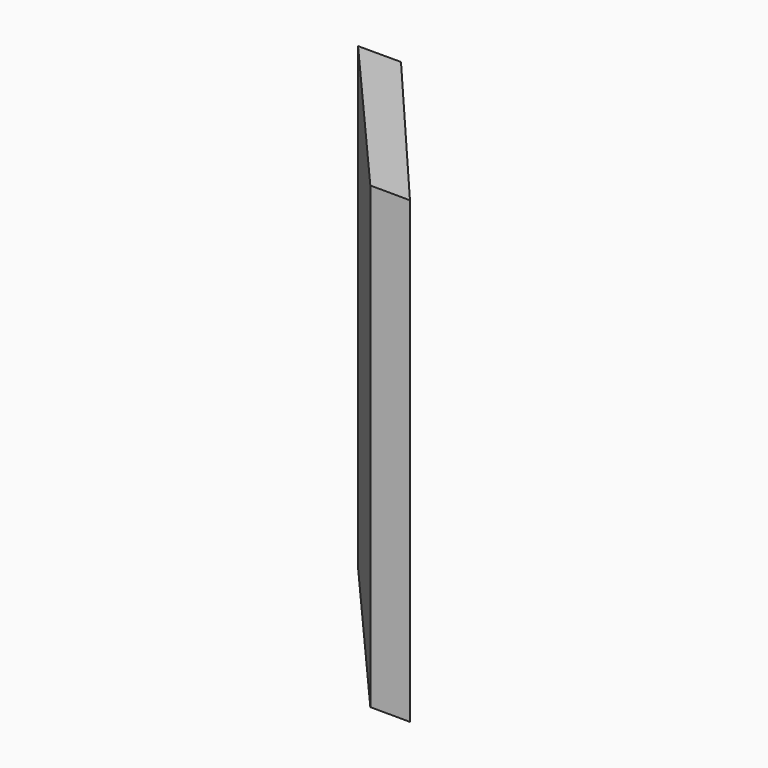
from build123d import *

# Parameters (mm, degrees)
F1_DEPTH = 388.820231


with BuildPart() as f1:
    # F0 (on Top) → F1 (new body)
    with BuildSketch(Plane.XY):
        Polygon((33.697896, -0.176251), (33.548033, 0), (0, 0), align=None)
        Polygon((0, 0), (33.548033, 0), (-94.663486, 150.786906), (-131.025478, 150.786906), align=None)
    extrude(amount=F1_DEPTH)


solid = f1.part
